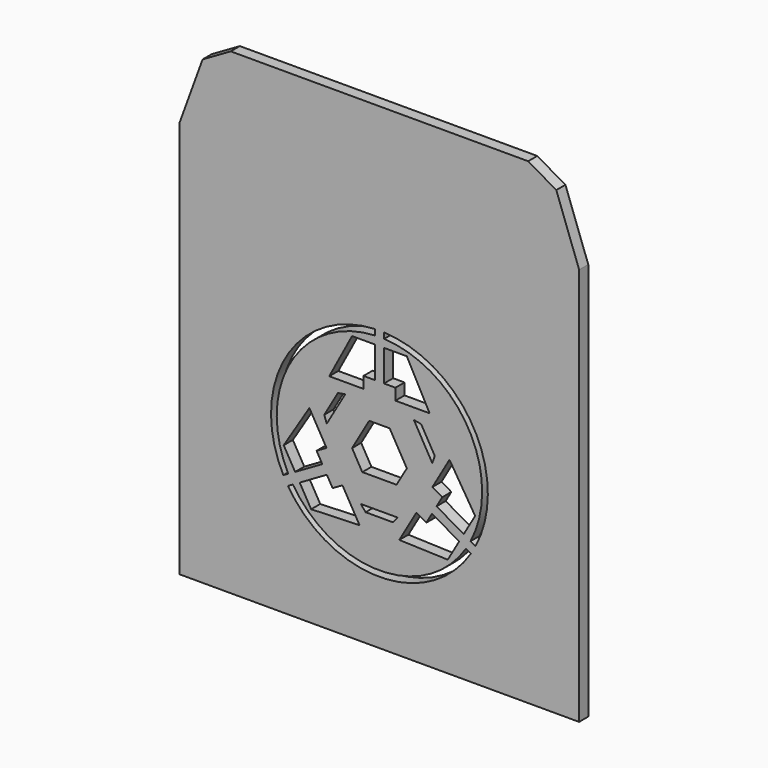
from build123d import *

# Parameters (mm, degrees)
F1_DEPTH = 2.54
F3_DEPTH = 25.4


with BuildPart() as f1:
    # F0 (on Front) → F1 (new body)
    with BuildSketch(Plane.XZ):
        Polygon((-88.9, 88.61105), (-88.9, 0), (0, 0), (0, 88.61105), (-5.080001, 102.568238), (-11.349622, 106.188005), (-77.550378, 106.188005), (-83.819999, 102.568238), align=None)
    extrude(amount=-F1_DEPTH)

    # F2 (on face) → F3 (cut)
    with BuildSketch(Plane.XZ):
        with BuildLine():
            Line((-45.4609, 60.938815), (-45.4609, 62.208815))
            ThreePointArc((-45.4609, 62.208815), (-65.340628, 50.176363), (-65.846443, 26.944323))
            Line((-65.846443, 26.944323), (-64.746537, 27.579354))
            ThreePointArc((-64.746537, 27.579354), (-64.241794, 49.541953), (-45.4609, 60.938815))
        make_face()
        Polygon((-57.164827, 31.932267), (-58.434827, 34.131971), (-56.235123, 35.401971), (-60.045123, 42.001085), (-65.754015, 32.839176), (-63.214015, 28.439767), align=None)
        Polygon((-46.736, 43.819232), (-50.546, 37.220118), (-48.26, 33.26065), (-40.64, 33.26065), (-38.354, 37.220118), (-42.164, 43.819232), align=None)
        Polygon((-48.006, 52.19523), (-45.466, 52.19523), (-45.466, 59.18023), (-50.546, 59.18023), (-55.626, 49.65523), (-48.006, 49.65523), align=None)
        Polygon((-43.434, 59.18023), (-43.434, 52.19523), (-40.894, 52.19523), (-40.894, 49.65523), (-33.274, 49.65523), (-38.354, 59.18023), align=None)
        Polygon((-28.854877, 42.001085), (-32.664877, 35.401971), (-30.465173, 34.131971), (-31.735173, 31.932267), (-25.685985, 28.439767), (-23.145985, 32.839176), align=None)
        Polygon((-32.751173, 30.172503), (-34.021173, 27.972799), (-36.220877, 29.242799), (-40.030877, 22.643685), (-29.241985, 22.280594), (-26.701985, 26.680003), align=None)
        Polygon((-48.869123, 22.643685), (-52.679123, 29.242799), (-54.878827, 27.972799), (-56.148827, 30.172503), (-62.198015, 26.680003), (-59.658015, 22.280594), align=None)
        with BuildLine():
            ThreePointArc((-25.190585, 25.783006), (-44.463124, 15.238827), (-63.723544, 25.805127))
            Line((-63.723544, 25.805127), (-64.823397, 25.170127))
            ThreePointArc((-64.823397, 25.170127), (-44.463123, 13.970004), (-24.090679, 25.147975))
            Line((-24.090679, 25.147975), (-25.190585, 25.783006))
        make_face()
        Polygon((-32.688785, 40.107677), (-32.121761, 41.665563), (-35.159058, 46.926317), (-36.791739, 47.214202), align=None)
        Polygon((-56.172261, 40.175148), (-52.069307, 47.281672), (-53.701988, 46.993787), (-56.739285, 41.733033), align=None)
        Polygon((-48.591908, 26.91065), (-47.526251, 25.64065), (-41.451657, 25.64065), (-40.386, 26.91065), align=None)
        with BuildLine():
            Line((-43.412878, 62.207702), (-43.412878, 60.93764))
            ThreePointArc((-43.412878, 60.93764), (-24.645081, 49.51922), (-24.165556, 27.556057))
            Line((-24.165556, 27.556057), (-23.065703, 26.921057))
            ThreePointArc((-23.065703, 26.921057), (-23.546249, 50.153633), (-43.412878, 62.207702))
        make_face()
    extrude(amount=-F3_DEPTH, mode=Mode.SUBTRACT)


solid = f1.part
